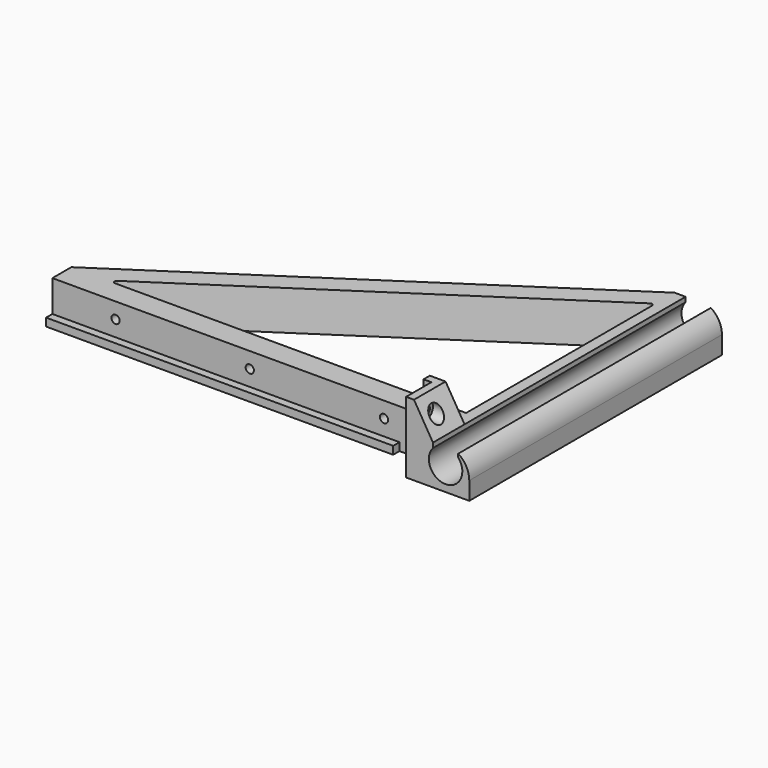
from build123d import *

# Parameters (mm, degrees)
PAD_DEPTH            = 20
PAD_DEPTH_BACK       = 180
PAD001_DEPTH         = 25
POCKET_DEPTH         = 180.001
POCKET_DEPTH_BACK    = 20.001
PAD002_DEPTH         = 20
PAD002_DEPTH_BACK    = 5
SKETCH008_W          = 20.2
SKETCH008_H          = 20.2
POCKET001_DEPTH      = 15.001
POCKET001_DEPTH_BACK = 30.001
SKETCH009_R          = 2.6
POCKET002_DEPTH      = 5
SKETCH010_R          = 5
POCKET003_DEPTH      = 10
SKETCH011_R          = 2.6
POCKET004_DEPTH      = 265.001
SKETCH012_R          = 5
POCKET005_DEPTH      = 20
SKETCH013_R          = 2
POCKET006_DEPTH      = 180.001


with BuildPart() as part:
    # Sketch → Pad (new body, two sides)
    with BuildSketch(Plane.XZ) as pad_sk:
        with BuildLine():
            Line((-15, 10), (3.201562, 10))
            Line((3.201562, 10), (6.201562, 10))
            ThreePointArc((15, -3.65795), (12.609975, 4.465345), (6.201562, 10))
            Line((15, -3.65795), (15, -15))
            Line((15, -15), (-15, -15))
            Line((-15, -15), (-15, 10))
        make_face()
    extrude(amount=PAD_DEPTH)
    extrude(pad_sk.sketch, amount=-PAD_DEPTH_BACK)

    # AdditivePipe: sweep along a path in Sketch001
    with BuildLine(Plane.XY) as additivepipe_path:
        Line((-265, 0), (0, 0))
    # Sketch002 (on DatumPlane) → AdditivePipe (sweep)
    with BuildSketch(Plane.YZ.offset(-265)):
        Polygon((0, -10), (0, 10), (15, 10), (5, 0), (5, -5), (15, -15), (-5, -15), (-5, -10), align=None)
    sweep(path=additivepipe_path.line, is_frenet=True)

    # AdditivePipe001: sweep along a path in Sketch004
    with BuildLine(Plane.XY) as additivepipe001_path:
        Line((-265, 0), (-15, 165))
    # Sketch003 (on DatumPlane) → AdditivePipe001 (sweep)
    with BuildSketch(Plane.YZ.offset(-265)):
        Polygon((0, 10), (0, -15), (15, -15), (5, -5), (5, 0), (15, 10), align=None)
    sweep(path=additivepipe001_path.line, is_frenet=True)

    # Sketch005 (on Face19 of AdditivePipe001) → Pad001 (join)
    with BuildSketch(Plane(origin=(0, 0, 10), x_dir=(-1, 0, 0), z_dir=(0, 0, 1))):
        with BuildLine():
            ThreePointArc((238.103146, -17.751924), (238.71354, -16.068657), (237.276897, -15))
            Line((237.276897, -15), (237.276897, -5))
            Line((237.276897, -5), (257.424242, -5))
            Line((257.424242, -5), (257.424242, -10))
            Line((257.424242, -10), (241.155013, -20.737691))
            Line((241.155013, -20.737691), (238.103146, -17.751924))
        make_face()
        with BuildLine():
            ThreePointArc((15, -162.212752), (15.789148, -163.533619), (17.326253, -163.464673))
            Line((17.326253, -163.464673), (19.815663, -166.821662))
            Line((19.815663, -166.821662), (12.527544, -171.631821))
            Line((12.527544, -162.212752), (12.527544, -171.631821))
            Line((15, -162.212752), (12.527544, -162.212752))
        make_face()
    extrude(amount=-PAD001_DEPTH)

    # Sketch006 → Pocket (cut, two sides)
    with BuildSketch(Plane.XZ) as pocket_sk:
        with BuildLine():
            ThreePointArc((-8, 6.954135), (0, -10.6), (8, 6.954135))
            Line((8, 22.954135), (8, 6.954135))
            Line((-8, 22.954135), (8, 22.954135))
            Line((-8, 6.954135), (-8, 22.954135))
        make_face()
    extrude(amount=-POCKET_DEPTH, mode=Mode.SUBTRACT)
    extrude(pocket_sk.sketch, amount=POCKET_DEPTH_BACK, mode=Mode.SUBTRACT)

    # Sketch007 → Pad002 (join, two sides)
    with BuildSketch(Plane.XZ) as pad002_sk:
        Polygon((-8, 10), (-20, 30), (-30, 30), (-30, -15), (-10.6, -15), (-10.6, 6.954135), (-8, 6.954135), align=None)
    extrude(amount=PAD002_DEPTH)
    extrude(pad002_sk.sketch, amount=-PAD002_DEPTH_BACK)

    # Sketch008 → Pocket001 (cut, two sides)
    with BuildSketch(Plane.XY) as pocket001_sk:
        with Locations((-35.1, -10.1)):
            Rectangle(SKETCH008_W, SKETCH008_H)
    extrude(amount=-POCKET001_DEPTH, mode=Mode.SUBTRACT)
    extrude(pocket001_sk.sketch, amount=POCKET001_DEPTH_BACK, mode=Mode.SUBTRACT)

    # Sketch009 → Pocket002 (cut)
    with BuildSketch(Plane.XZ):
        with Locations((-35, 0)):
            Circle(SKETCH009_R)
        with Locations((-55, 0)):
            Circle(SKETCH009_R)
        with Locations((-140, 0)):
            Circle(SKETCH009_R)
        with Locations((-225, 0)):
            Circle(SKETCH009_R)
    extrude(amount=-POCKET002_DEPTH, mode=Mode.SUBTRACT)

    # Sketch010 (on DatumPlane) → Pocket003 (cut)
    with BuildSketch(Plane.XZ.offset(-15)):
        with Locations((-225, 0)):
            Circle(SKETCH010_R)
        with Locations((-140, 0)):
            Circle(SKETCH010_R)
        with Locations((-55, 0)):
            Circle(SKETCH010_R)
        with Locations((-35, 0)):
            Circle(SKETCH010_R)
    extrude(amount=POCKET003_DEPTH, mode=Mode.SUBTRACT)

    # Sketch011 → Pocket004 (cut, through all)
    with BuildSketch(Plane.YZ):
        with Locations((-10, 20)):
            Circle(SKETCH011_R)
    extrude(amount=-POCKET004_DEPTH, mode=Mode.SUBTRACT)

    # Sketch012 → Pocket005 (cut)
    with BuildSketch(Plane.YZ):
        with Locations((-10, 20)):
            Circle(SKETCH012_R)
    extrude(amount=-POCKET005_DEPTH, mode=Mode.SUBTRACT)

    # Sketch013 → Pocket006 (cut, through all)
    with BuildSketch(Plane.XZ):
        with Locations((-225, 0)):
            Circle(SKETCH013_R)
    extrude(amount=-POCKET006_DEPTH, mode=Mode.SUBTRACT)


solid = part.part
